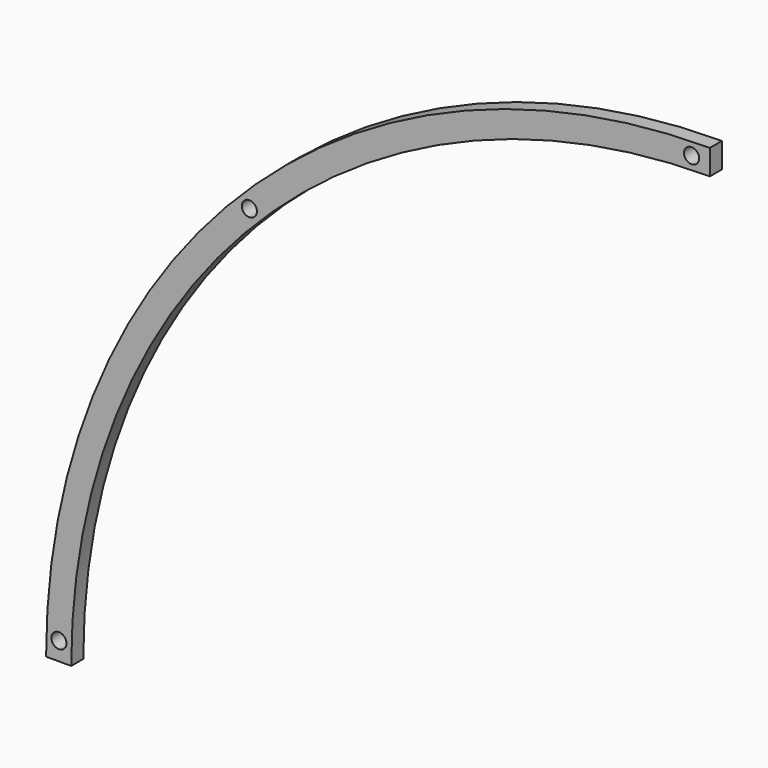
from build123d import *

# Parameters (mm, degrees)
F1_DEPTH = 12
F2_R     = 6
F3_DEPTH = 12.001


with BuildPart() as f1:
    # F0 (on Front) → F1 (new body)
    with BuildSketch(Plane.XZ):
        with BuildLine():
            ThreePointArc((-508, 0), (-359.2102448428, 359.2102448428), (0, 508))
            Line((0, 508), (0, 528))
            ThreePointArc((0, 528), (-373.3523804665, 373.3523804665), (-528, 0))
            Line((-528, 0), (-508, 0))
        make_face()
    extrude(amount=F1_DEPTH)

    # F2 (on face) → F3 (cut, through all)
    with BuildSketch(Plane.XZ.offset(12)):
        with Locations((-14.5279611382, 517.7962324556)):
            Circle(F2_R)
        with Locations((-366.2813129743, 366.281312335)):
            Circle(F2_R)
        with Locations((-517.7962324809, 14.5279602345)):
            Circle(F2_R)
    extrude(amount=-F3_DEPTH, mode=Mode.SUBTRACT)


solid = f1.part
